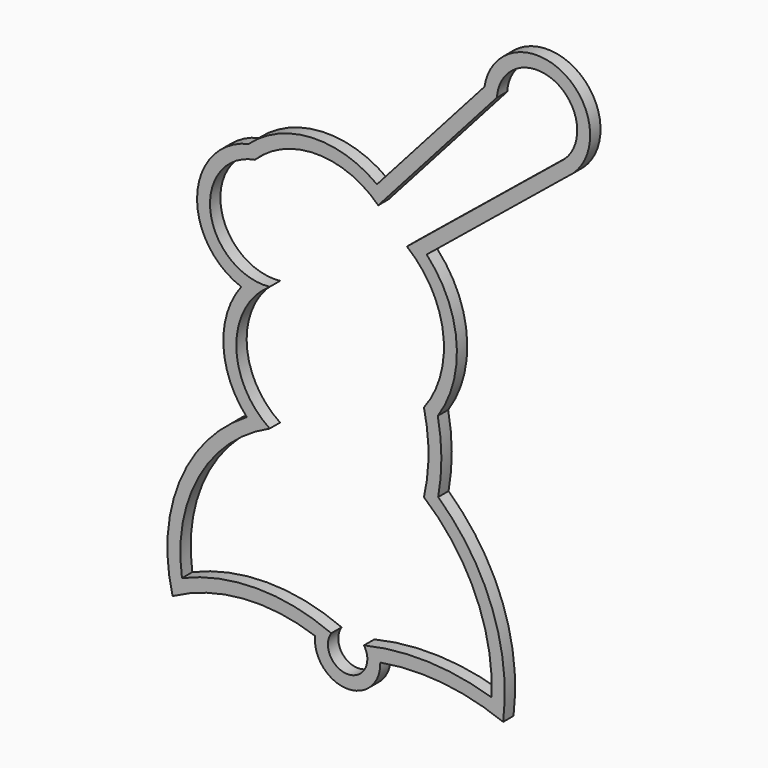
from build123d import *

# Parameters (mm, degrees)
F1_DEPTH = 5
F4_DEPTH = 2.54
F5_DEPTH = 25.4


with BuildPart() as f1:
    # F0 (on Front) → F1 (new body)
    with BuildSketch(Plane.XZ):
        with BuildLine():
            ThreePointArc((0, 20.9869445181), (-12.0966427586, 25.9236544676), (-24.1932855172, 20.9869445181))
            ThreePointArc((-24.1932855172, 20.9869445181), (-32.8877742223, 9.0834832543), (-21.2784307494, 0))
            ThreePointArc((-21.2784307494, 0), (-27.8345018972, -12.2317448258), (-21.2784307494, -24.4634896517))
            ThreePointArc((-21.2784307494, -24.4634896517), (-35.1701421662, -37.2707710413), (-38.4840406477, -55.8724962175))
            ThreePointArc((-38.4840406477, -55.8724962175), (-23.8469055846, -52.8720513548), (-9.2097705214, -55.8724962175))
            ThreePointArc((-9.2097705214, -55.8724962175), (-6.0029489911, -61.8966557159), (-2.7961274609, -55.8724962175))
            ThreePointArc((-2.7961274609, -55.8724962175), (9.7817579313, -54.6124723986), (22.2429726273, -56.7359104753))
            ThreePointArc((22.2429726273, -56.7359104753), (22.2759376745, -54.9746026101), (22.22623583, -53.2136875591))
            ThreePointArc((22.22623583, -53.2136875591), (18.366243738, -38.4713383456), (8.9641526372, -26.4781285077))
            ThreePointArc((8.9641526372, -26.4781285077), (9.8457214763, -18.7313808571), (8.9641526372, -10.9846332065))
            ThreePointArc((8.9641526372, -10.9846332065), (12.7377833841, 3.0446666193), (5.6262267365, 15.7130250237))
            Line((5.6262267365, 15.7130250237), (36.5616049228, 40.8807976003))
            ThreePointArc((36.5616049228, 40.8807976003), (34.4898748978, 53.7428757551), (23.25864156, 47.1410186325))
            Line((23.25864156, 47.1410186325), (0, 20.9869445181))
        make_face()
    extrude(amount=F1_DEPTH)

    # F5 (cut): a face of the model
    f5_faces = [f1.faces().sort_by_distance(p)[0] for p in [
        (-4.5967380367, -5, -11.98241047),
    ]]
    extrude(f5_faces, amount=-F5_DEPTH, mode=Mode.SUBTRACT)


with BuildPart() as f1b:
    # F0 (on Front) → F1, piece 2 (new body)
    with BuildSketch(Plane.XZ):
        with BuildLine():
            ThreePointArc((41.8436169818, -52.7066290379), (31.7747593943, -42.8946624715), (22.22623583, -53.2136875591))
            ThreePointArc((22.22623583, -53.2136875591), (32.2819872673, -62.5185956042), (41.8436169818, -52.7066290379))
        make_face()
    extrude(amount=F1_DEPTH)


with BuildPart() as f4:
    # F3 (on face) → F4 (new body)
    with BuildSketch(Plane.XZ.offset(5)):
        with BuildLine():
            ThreePointArc((-40.3169446951, -59.5749264298), (-26.5786982557, -55.5198668281), (-12.3739342893, -57.3658365623))
            ThreePointArc((-12.3739342893, -57.3658365623), (-6.2221601499, -64.4329037682), (0.3986158134, -57.8031911351))
            ThreePointArc((0.3986158134, -57.8031911351), (12.6136445695, -57.3475459696), (24.4946623983, -60.2208638043))
            ThreePointArc((24.4946623983, -60.2208638043), (22.3566756727, -41.3285471938), (11.7528280148, -25.5472598891))
            ThreePointArc((11.7528280148, -25.5472598891), (12.3852570181, -18.5459373039), (11.6827134618, -11.5513024358))
            ThreePointArc((11.6827134618, -11.5513024358), (15.3563975367, 2.4028081974), (9.5009837393, 15.5909577077))
            Line((9.5009837393, 15.5909577077), (38.2345170044, 38.9673983055))
            ThreePointArc((38.2345170044, 38.9673983055), (36.0298866682, 55.8114240261), (20.82786015, 48.229868306))
            Line((20.82786015, 48.229868306), (-0.2458838852, 24.5326862524))
            ThreePointArc((-0.2458838852, 24.5326862524), (-13.043561552, 28.4410317154), (-25.4100113891, 23.3296095701))
            ThreePointArc((-25.4100113891, 23.3296095701), (-35.5065684593, 11.3015480777), (-26.8662872673, -1.811814148))
            ThreePointArc((-26.8662872673, -1.811814148), (-30.3536378615, -13.0793756448), (-25.7757993219, -23.9496539557))
            ThreePointArc((-25.7757993219, -23.9496539557), (-38.9666786297, -39.3458023105), (-40.3169446951, -59.5749264298))
        make_face()
        with BuildLine():
            ThreePointArc((-2.7961274609, -55.8724962175), (-6.0029489911, -61.8966557159), (-9.2097705214, -55.8724962175))
            ThreePointArc((-9.2097705214, -55.8724962175), (-23.8469055846, -52.8720513548), (-38.4840406477, -55.8724962175))
            ThreePointArc((-38.4840406477, -55.8724962175), (-35.1701421662, -37.2707710413), (-21.2784307494, -24.4634896517))
            ThreePointArc((-21.2784307494, -24.4634896517), (-27.8345018972, -12.2317448258), (-21.2784307494, 0))
            ThreePointArc((-21.2784307494, 0), (-32.8877742223, 9.0834832543), (-24.1932855172, 20.9869445181))
            ThreePointArc((-24.1932855172, 20.9869445181), (-12.0966427586, 25.9236544676), (0, 20.9869445181))
            Line((0, 20.9869445181), (23.25864156, 47.1410186325))
            ThreePointArc((23.25864156, 47.1410186325), (34.4898748978, 53.7428757551), (36.5616049228, 40.8807976003))
            Line((36.5616049228, 40.8807976003), (5.6262267365, 15.7130250237))
            ThreePointArc((5.6262267365, 15.7130250237), (12.7377833841, 3.0446666193), (8.9641526372, -10.9846332065))
            ThreePointArc((8.9641526372, -10.9846332065), (9.8457214763, -18.7313808571), (8.9641526372, -26.4781285077))
            ThreePointArc((8.9641526372, -26.4781285077), (19.1118233272, -40.0673969806), (22.2429726273, -56.7359104753))
            ThreePointArc((22.2429726273, -56.7359104753), (9.7817579313, -54.6124723986), (-2.7961274609, -55.8724962175))
        make_face(mode=Mode.SUBTRACT)
    extrude(amount=F4_DEPTH)


solid = f4.part
